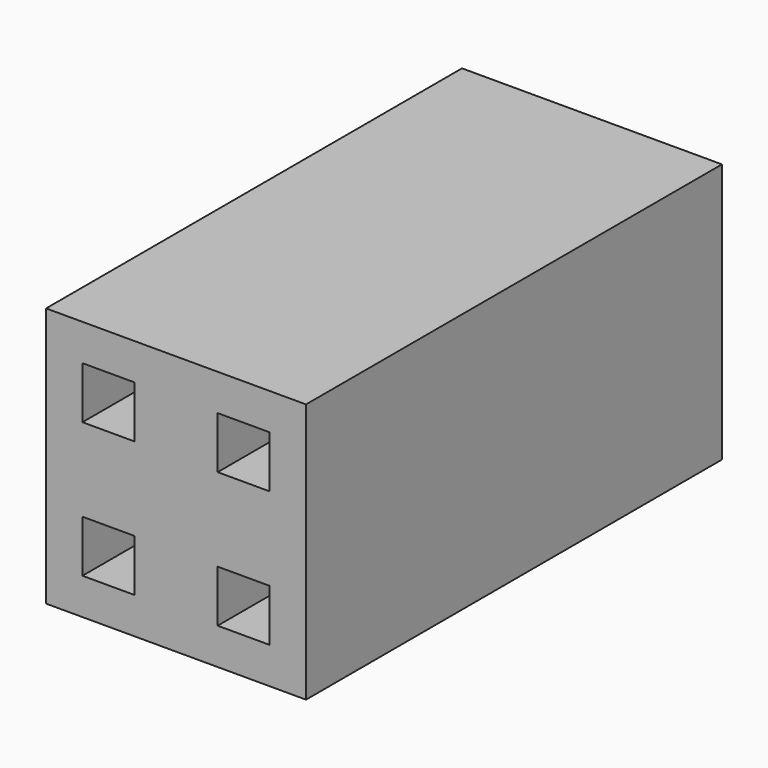
from build123d import *

# Parameters (mm, degrees)
SKETCH002_W   = 50
SKETCH002_H   = 50
SKETCH002_W_2 = 10
SKETCH002_H_2 = 10
PAD_DEPTH     = 50


with BuildPart() as part:
    # Sketch002 → Pad (new body, symmetric)
    with BuildSketch(Plane.XZ):
        Rectangle(SKETCH002_W, SKETCH002_H)
        with Locations((-13, 13)):
            Rectangle(SKETCH002_W_2, SKETCH002_H_2, mode=Mode.SUBTRACT)
        with Locations((13, 13)):
            Rectangle(SKETCH002_W_2, SKETCH002_H_2, mode=Mode.SUBTRACT)
        with Locations((13, -13)):
            Rectangle(SKETCH002_W_2, SKETCH002_H_2, mode=Mode.SUBTRACT)
        with Locations((-13, -13)):
            Rectangle(SKETCH002_W_2, SKETCH002_H_2, mode=Mode.SUBTRACT)
    extrude(amount=PAD_DEPTH, both=True)


solid = part.part
